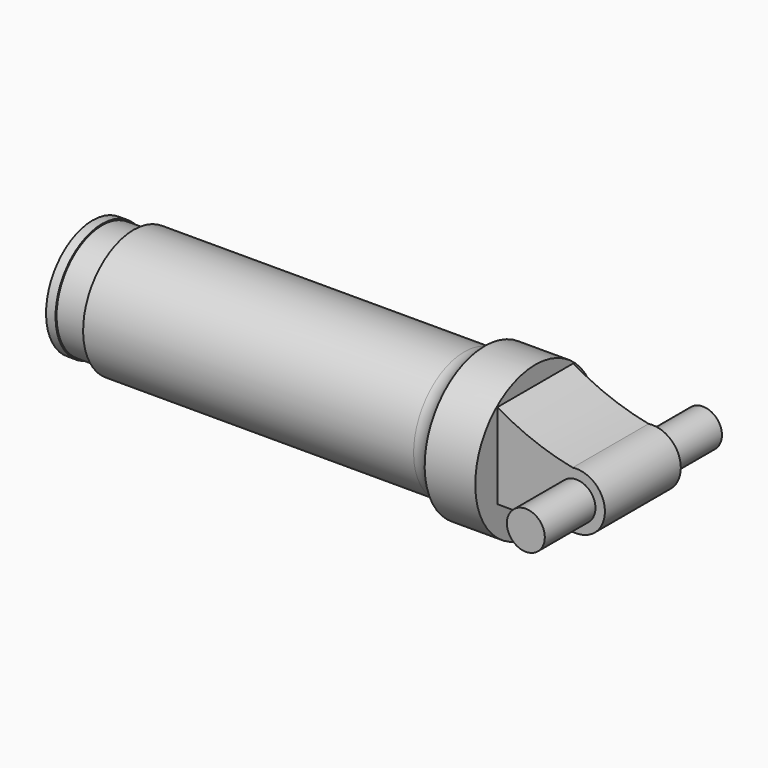
from build123d import *

# Parameters (mm, degrees)
F0_W     = 112
F0_H     = 13.5
F2_DEPTH = 117.5
F3_DEPTH = 15
F4_R     = 6
F5_DEPTH = 20
F6_DEPTH = 70


with BuildPart() as f1:
    # F0 (on Front) → F1 (revolve)
    with BuildSketch(Plane.XZ):
        with BuildLine():
            Line((84.7845596923, 37.8570006367), (84.7845596923, 55.8570006367))
            Line((84.7845596923, 55.8570006367), (84.7845596923, 61.6070006367))
            Line((84.7845596923, 61.6070006367), (68.7845596923, 61.6070006367))
            ThreePointArc((68.7845596923, 61.6070006367), (66.0366424473, 58.8617238614), (62.2845596923, 57.8570006367))
            Line((62.2845596923, 57.8570006367), (-42.2154403077, 57.8570006367))
            Line((-42.2154403077, 57.8570006367), (-42.2154403077, 55.8570006367))
            Line((-42.2154403077, 55.8570006367), (-52.2154403077, 55.8570006367))
            Line((-52.2154403077, 55.8570006367), (-52.2154403077, 56.2570006367))
            Line((-52.2154403077, 56.2570006367), (-55.2154403077, 56.2570006367))
            Line((-55.2154403077, 56.2570006367), (-55.2154403077, 51.3570006367))
            Line((-55.2154403077, 51.3570006367), (-43.2154403077, 51.3570006367))
            Line((-43.2154403077, 51.3570006367), (68.7845596923, 51.3570006367))
            Line((68.7845596923, 51.3570006367), (68.7845596923, 37.8570006367))
            Line((68.7845596923, 37.8570006367), (84.7845596923, 37.8570006367))
        make_face()
        with Locations((12.7845596923, 44.6070006367)):
            Rectangle(F0_W, F0_H)
    revolve(axis=Axis((14.7845596923, 0, 37.8570006367), (1, 0, 0)))

    # F2 (cut): a face of the model
    f2_faces = [f1.faces().sort_by_distance(p)[0] for p in [
        (-43.2154403077, 0, 37.8570006367),
    ]]
    extrude(f2_faces, amount=-F2_DEPTH, mode=Mode.SUBTRACT)

    # F0 (on Front) → F3 (join, symmetric)
    with BuildSketch(Plane.XZ):
        with BuildLine():
            Line((84.7845596923, 28.8570006367), (109.7845596923, 28.8570006367))
            ThreePointArc((109.7845596923, 28.8570006367), (100.8051004109, 37.2492909907), (108.5719143545, 46.7749315225))
            ThreePointArc((108.5719143545, 46.7749315225), (96.2900045696, 50.299124768), (84.7845596923, 55.8570006367))
            Line((84.7845596923, 55.8570006367), (84.7845596923, 37.8570006367))
            Line((84.7845596923, 37.8570006367), (84.7845596923, 28.8570006367))
        make_face()
        with BuildLine():
            ThreePointArc((108.5719143545, 46.7749315225), (100.8051004109, 37.2492909907), (109.7845596923, 28.8570006367))
            ThreePointArc((109.7845596923, 28.8570006367), (116.148520723, 31.493039606), (118.7845596923, 37.8570006367))
            ThreePointArc((118.7845596923, 37.8570006367), (115.70428063, 44.6361527975), (108.5719143545, 46.7749315225))
        make_face()
    extrude(amount=F3_DEPTH, both=True)

    # F4 (on face) → F5 (join)
    with BuildSketch(Plane.XZ.offset(15)):
        with Locations((109.7845596923, 37.8570006367)):
            Circle(F4_R)
    extrude(amount=F5_DEPTH)

    # F6 (add): a face of the model
    f6_faces = [f1.faces().sort_by_distance(p)[0] for p in [
        (109.7845596923, -35, 37.8570006367),
    ]]
    extrude(f6_faces, amount=-F6_DEPTH)


solid = f1.part
